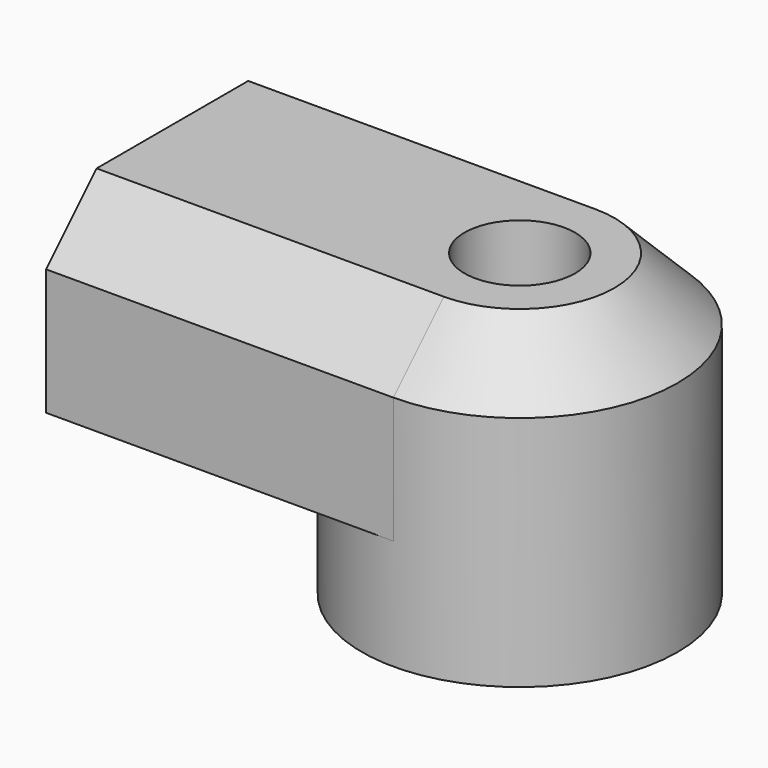
from build123d import *

# Parameters (mm, degrees)
F1_DEPTH = 6
F2_R     = 5
F2_R_2   = 1.75
F3_DEPTH = 9.5
F4_SIZE  = 2


with BuildPart() as f1:
    # F0 (on Top) → F1 (new body)
    with BuildSketch(Plane.XY):
        with BuildLine():
            ThreePointArc((0, -5), (-5, 0), (0, 5))
            Line((0, 5), (-11, 5))
            Line((-11, 5), (-11, -5))
            Line((-11, -5), (0, -5))
        make_face()
    extrude(amount=-F1_DEPTH)

    # F2 (on Top) → F3 (join)
    with BuildSketch(Plane.XY):
        Circle(F2_R)
        Circle(F2_R_2, mode=Mode.SUBTRACT)
    extrude(amount=-F3_DEPTH)

    # F4
    f4_edges = [f1.edges().sort_by_distance(p)[0] for p in [
        (-5.5, 5, 0),
    ]]
    chamfer(f4_edges, length=F4_SIZE)


solid = f1.part
